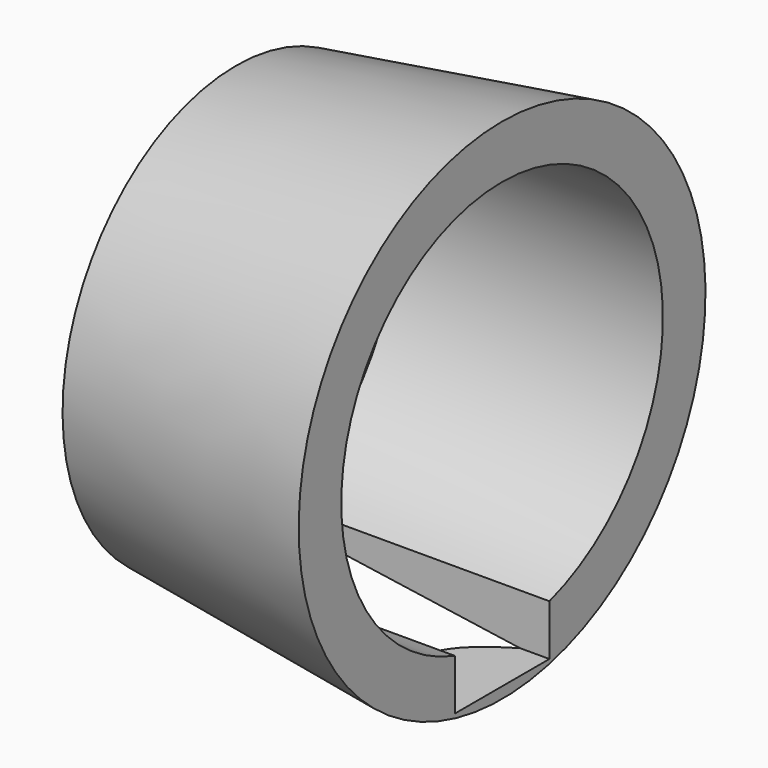
from build123d import *

# Parameters (mm, degrees)
F2_W     = 20
F2_H     = 16.608118
F3_DEPTH = 45.001


with BuildPart() as f1:
    # F0 (on Front) → F1 (revolve)
    with BuildSketch(Plane.XZ):
        Polygon((-22.5, 36.675662), (-22.5, 34), (22.5, 34), (22.5, 43), align=None)
    revolve(axis=Axis((3.817478, 0, 0), (1, 0, 0)))

    # F2 (on face) → F3 (cut, through all)
    with BuildSketch(Plane.YZ.offset(22.5)):
        with Locations((0, -32.795941)):
            Rectangle(F2_W, F2_H)
    extrude(amount=-F3_DEPTH, mode=Mode.SUBTRACT)


solid = f1.part
